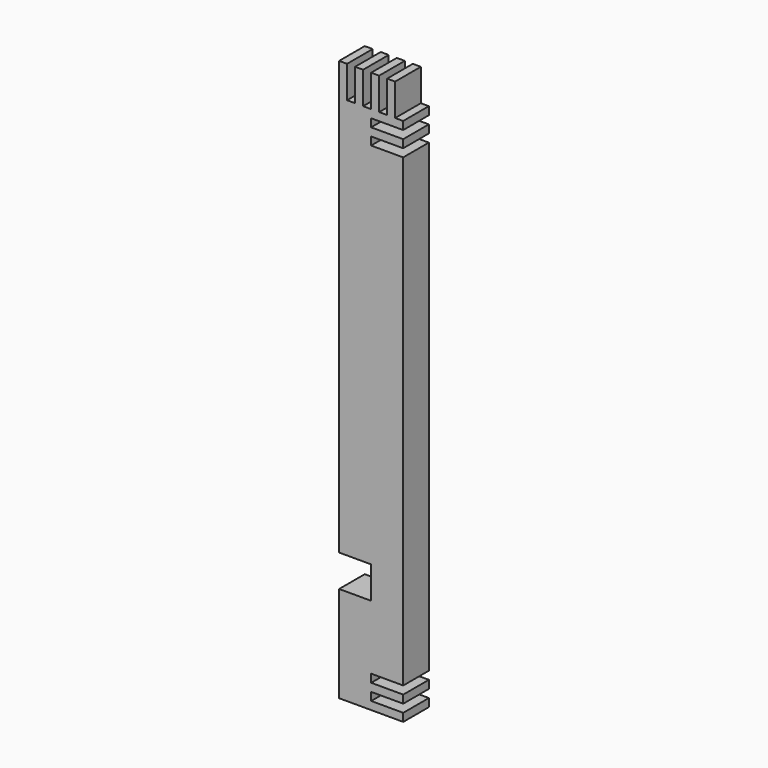
from build123d import *

# Parameters (mm, degrees)
F1_DEPTH = 20


with BuildPart() as f1:
    # F0 (on Front) → F1 (new body, symmetric)
    with BuildSketch(Plane.XZ):
        Polygon((-40, 600.399852), (-49.913804, 600.399852), (-49.913804, 60.399852), (-9.913804, 60.399852), (-9.913804, 20.399852), (-49.913804, 20.399852), (-49.913804, -99.600148), (30.086196, -99.600148), (30.086196, -89.600148), (-9.913804, -89.600148), (-9.913804, -79.600148), (30.086196, -79.600148), (30.086196, -69.600148), (-9.913804, -69.600148), (-9.913804, -59.600148), (30.086196, -59.600148), (30, 520.399852), (-10, 520.399852), (-10, 530.399852), (30, 530.399852), (30, 540.399852), (-10, 540.399852), (-10, 550.399852), (30, 550.399852), (30, 560.399852), (20, 560.399852), (20, 600.399852), (10, 600.399852), (10, 560.399852), (0, 560.399852), (0, 600.399852), (-10, 600.399852), (-10, 560.399852), (-20, 560.399852), (-20, 600.399852), (-30, 600.399852), (-30, 560.399852), (-40, 560.399852), align=None)
    extrude(amount=F1_DEPTH, both=True)


solid = f1.part
